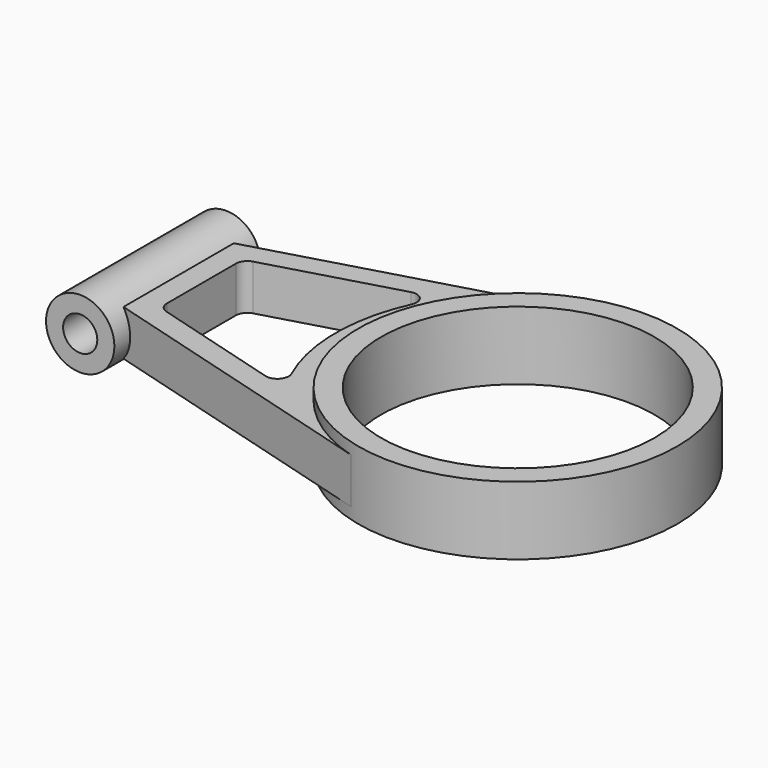
from build123d import *

# Parameters (mm, degrees)
F2_R     = 35
F2_R_2   = 29.9999993294
F3_DEPTH = 15
F4_R     = 7.5
F4_R_2   = 3.75
F5_DEPTH = 20
F6_DEPTH = 10


with BuildPart() as f3:
    # F2 (on offset) → F3 (new body)
    with BuildSketch(Plane.XY.offset(2.5)):
        Circle(F2_R)
        Circle(F2_R_2, mode=Mode.SUBTRACT)
    extrude(amount=-F3_DEPTH)



with BuildPart() as f5:
    # F4 (on Front) → F5 (new body, symmetric)
    with BuildSketch(Plane.XZ):
        with Locations((-80, -5)):
            Circle(F4_R)
        with Locations((-80, -5)):
            Circle(F4_R_2, mode=Mode.SUBTRACT)
    extrude(amount=F5_DEPTH, both=True)


with BuildPart() as f3_1:
    add(f3.part)

    add(f5.part)  # F6 merges F5
    # F0 (on Top) → F6 (join)
    with BuildSketch(Plane.XY):
        with BuildLine():
            ThreePointArc((-9.6227058053, -33.6512040347), (-35, 0), (-9.6227058053, 33.6512040347))
            Line((-9.6227058053, 33.6512040347), (-74.41, 15.125))
            Line((-74.41, 15.125), (-74.41, -15.125))
            Line((-74.41, -15.125), (-9.6227058053, -33.6512040347))
        make_face()
        with BuildLine():
            ThreePointArc((-39.4029946243, 19.9349947238), (-36.8231138473, 19.164822755), (-36.4382668191, 16.5000821579))
            ThreePointArc((-36.4382668191, 16.5000821579), (-40, 0), (-36.4382668191, -16.5000821579))
            ThreePointArc((-36.4382668191, -16.5000821579), (-36.8231138473, -19.164822755), (-39.4029946243, -19.9349947238))
            Line((-39.4029946243, -19.9349947238), (-67.597336129, -11.8727021118))
            ThreePointArc((-67.597336129, -11.8727021118), (-68.9060386172, -10.9743120453), (-69.41, -9.4690446807))
            Line((-69.41, -9.4690446807), (-69.41, 9.4690446807))
            ThreePointArc((-69.41, 9.4690446807), (-68.9060386172, 10.9743120453), (-67.597336129, 11.8727021118))
            Line((-67.597336129, 11.8727021118), (-39.4029946243, 19.9349947238))
        make_face(mode=Mode.SUBTRACT)
    extrude(amount=-F6_DEPTH)


solid = f3_1.part
